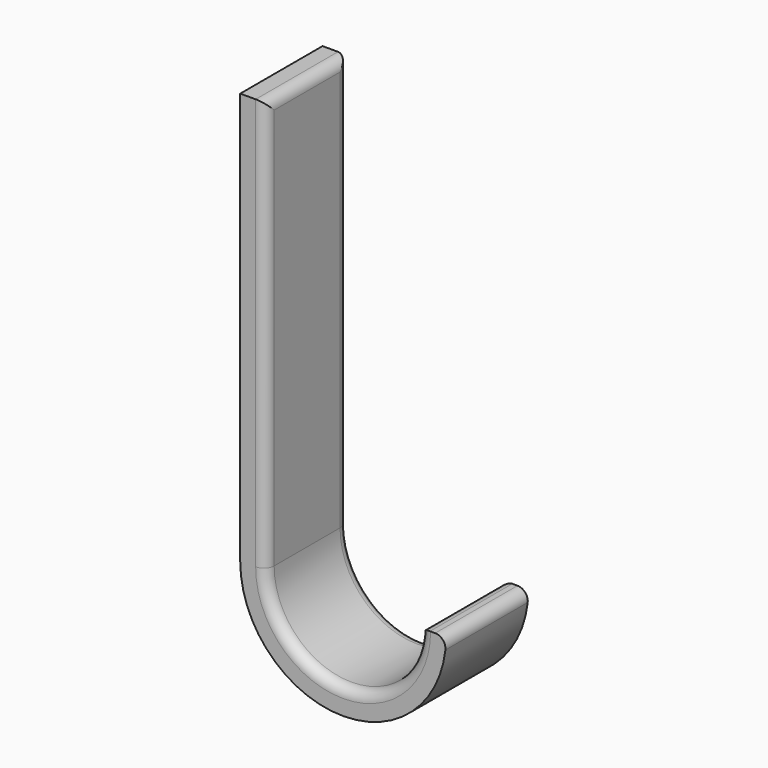
from build123d import *

# Parameters (mm, degrees)
F1_DEPTH = 12.7
F2_R     = 1.27


with BuildPart() as f1:
    # F0 (on Front) → F1 (new body)
    with BuildSketch(Plane.XZ):
        with BuildLine():
            Line((-60.66708, 18.066773), (-60.66708, 68.866773))
            Line((-60.66708, 68.866773), (-63.84208, 68.866773))
            Line((-63.84208, 68.866773), (-63.84208, 18.066773))
            ThreePointArc((-63.84208, 18.066773), (-51.14208, 5.366773), (-38.44208, 18.066773))
            Line((-38.44208, 18.066773), (-41.61708, 18.066773))
            ThreePointArc((-41.61708, 18.066773), (-51.14208, 8.541773), (-60.66708, 18.066773))
        make_face()
    extrude(amount=F1_DEPTH)

    # F2
    f2_edges = [f1.edges().sort_by_distance(p)[0] for p in [
        (-60.66708, -12.7, 43.466773),
        (-60.66708, 0, 43.466773),
        (-38.44208, -6.35, 18.066773),
        (-41.61708, -6.35, 18.066773),
        (-60.66708, -6.35, 68.866773),
    ]]
    fillet(f2_edges, radius=F2_R)


solid = f1.part
